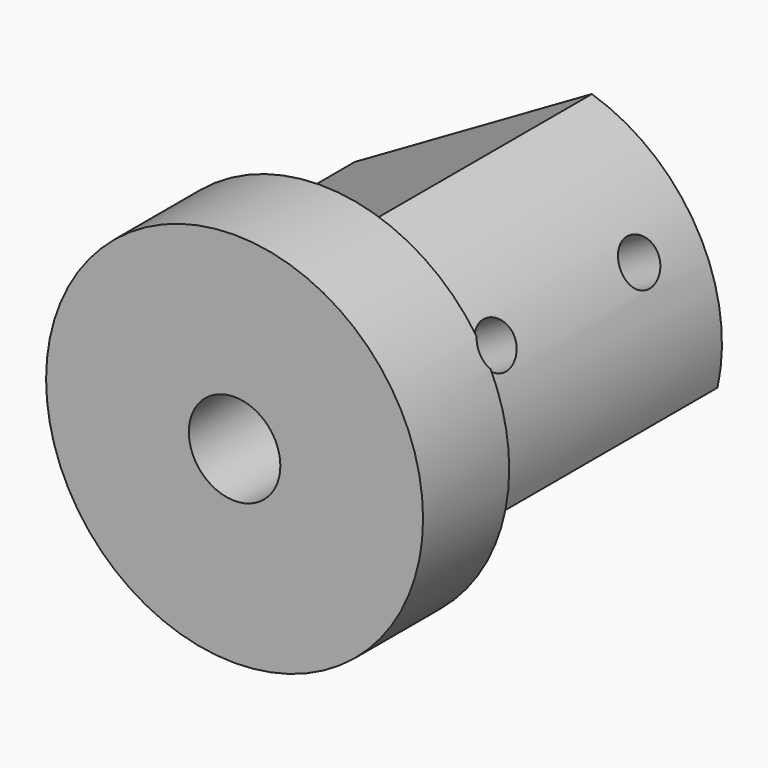
from build123d import *

# Parameters (mm, degrees)
SKETCH001_R    = 10.5
SKETCH001_R_2  = 2.55
PAD001_DEPTH   = 21
SKETCH003_R    = 20.618255
POCKET_DEPTH   = 15
SKETCH015_R    = 1.25
HOLE004_DEPTH  = 5
HOLE004_TIPS_R = 1.25
SKETCH039_R    = 1.25
HOLE011_DEPTH  = 10
HOLE011_TIPS_R = 1.25


with BuildPart() as part:
    # Sketch001 → Pad001 (new body)
    with BuildSketch(Plane.XZ):
        Circle(SKETCH001_R)
        Circle(SKETCH001_R_2, mode=Mode.SUBTRACT)
    extrude(amount=PAD001_DEPTH)

    # Sketch003 (on Face3 of Pad001) → Pocket (cut)
    with BuildSketch(Plane(origin=(0, 0, 0), x_dir=(1, 0, 0), z_dir=(0, 1, 0))):
        Circle(SKETCH003_R)
        with BuildLine():
            ThreePointArc((-3.1024143311, 9.8740835179), (-8.9633629292, 5.175), (-10.1024143311, -2.2502721351))
            Line((-10.1024143311, -2.2502721351), (3.1044730766, -9.8752721351))
            ThreePointArc((3.1044730766, -9.8752721351), (8.9648795095, -5.175875598), (10.1044730766, 2.2490835179))
            Line((-3.1024143311, 9.8740835179), (10.1044730766, 2.2490835179))
        make_face(mode=Mode.SUBTRACT)
    extrude(amount=-POCKET_DEPTH, mode=Mode.SUBTRACT)

    # Sketch015 (on Face9 of Pocket) → Hole004 (cut)
    with BuildSketch(Plane(origin=(0, 0, 0), x_dir=(1, 0, 0), z_dir=(0, 1, 0))):
        with Locations((-5.5, 3)):
            Circle(SKETCH015_R)
    extrude(amount=-HOLE004_DEPTH, mode=Mode.SUBTRACT)

    # Hole004 tips → Hole004 tip 1 section 0
    with BuildSketch(Plane(origin=(0, -5, 0), x_dir=(1, 0, 0), z_dir=(0, 1, 0)), mode=Mode.PRIVATE) as hole004_tip_1_s0:
        with Locations((-5.5, 3)):
            Circle(HOLE004_TIPS_R)
    loft([hole004_tip_1_s0.sketch, Vertex(-5.5, -5.7510757738, -3)], mode=Mode.SUBTRACT)

    # Sketch039 (on DatumPlane) → Hole011 (cut)
    with BuildSketch(Plane(origin=(2, 0, 0), x_dir=(0.5, 0, -0.8660254038), z_dir=(-0.8660254038, 0, -0.5))):
        with Locations((-0.991399, 14.019394)):
            Circle(SKETCH039_R)
        with Locations((-0.991399, 4.014446)):
            Circle(SKETCH039_R)
    extrude(amount=-HOLE011_DEPTH, mode=Mode.SUBTRACT)

    # Hole011 tips → Hole011 tip 1 section 0
    with BuildSketch(Plane(origin=(10.6602540378, 0, 5), x_dir=(0.5, 0, -0.8660254038), z_dir=(-0.8660254038, 0, -0.5)), mode=Mode.PRIVATE) as hole011_tip_1_s0:
        with Locations((-0.991399, 14.019394)):
            Circle(HOLE011_TIPS_R)
    loft([hole011_tip_1_s0.sketch, Vertex(10.8150052381, -14.019394, 6.2341146062)], mode=Mode.SUBTRACT)

    # Hole011 tips → Hole011 tip 2 section 0
    with BuildSketch(Plane(origin=(10.6602540378, 0, 5), x_dir=(0.5, 0, -0.8660254038), z_dir=(-0.8660254038, 0, -0.5)), mode=Mode.PRIVATE) as hole011_tip_2_s0:
        with Locations((-0.991399, 4.014446)):
            Circle(HOLE011_TIPS_R)
    loft([hole011_tip_2_s0.sketch, Vertex(10.8150052381, -4.014446, 6.2341146062)], mode=Mode.SUBTRACT)


with BuildPart() as part_1:
    # Body001 placement: moved
    add(part.part.moved(Location((0, 64, 0))))


solid = part_1.part
